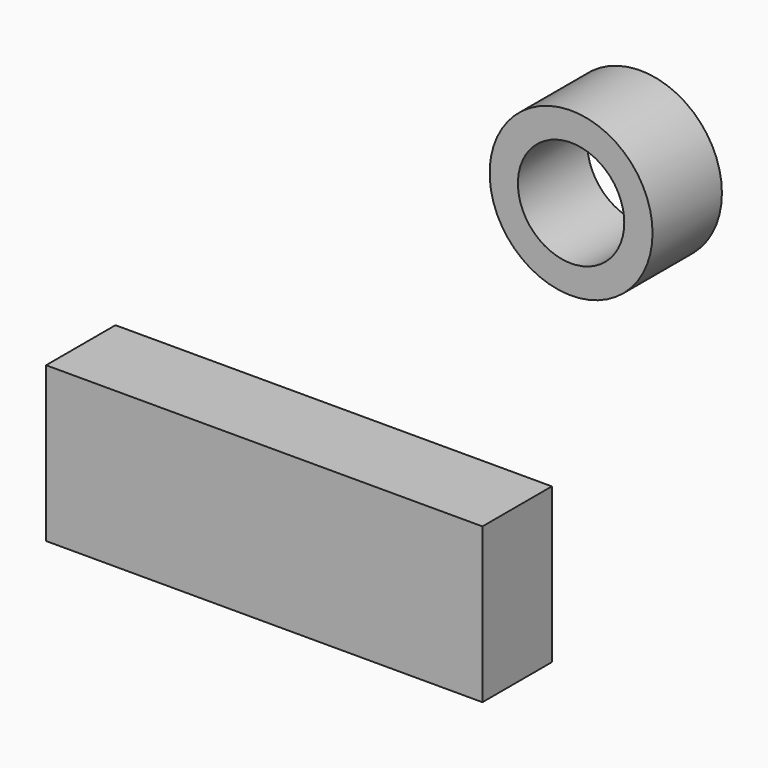
from build123d import *

# Parameters (mm, degrees)
F0_W     = 38.340669
F0_H     = 13.600188
F0_R     = 7.15705
F0_R_2   = 4.672577
F1_DEPTH = 7.62


with BuildPart() as f1:
    # F0 (on Front) → F1 (new body)
    with BuildSketch(Plane.XZ):
        with Locations((-26.958941, 27.707836)):
            Rectangle(F0_W, F0_H)
        with Locations((0, 62.053563)):
            Circle(F0_R)
        with Locations((0, 62.053563)):
            Circle(F0_R_2, mode=Mode.SUBTRACT)
    extrude(amount=F1_DEPTH)


solid = f1.part
